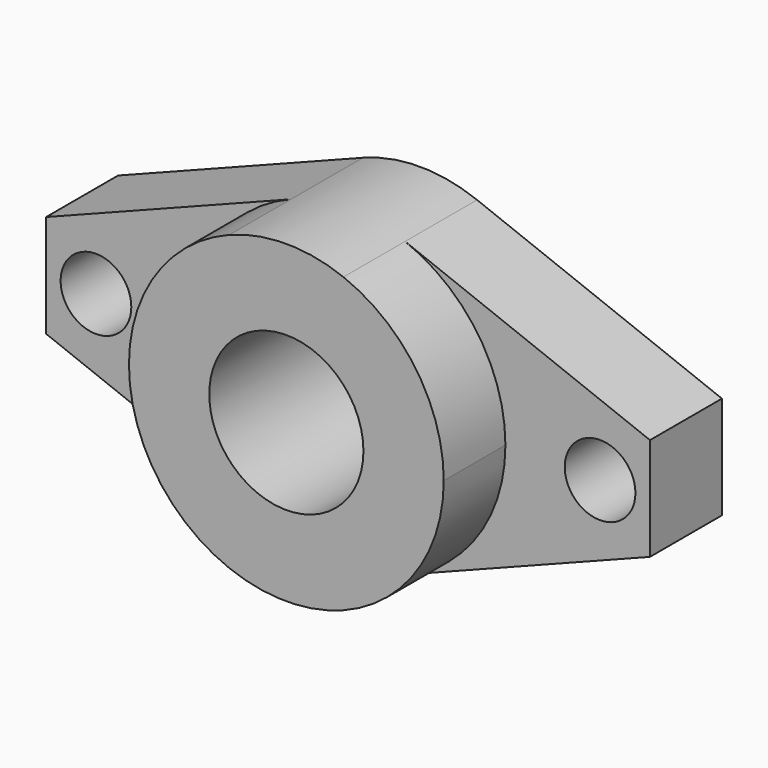
from build123d import *

# Parameters (mm, degrees)
F0_R     = 6
F1_DEPTH = 13
F0_R_2   = 2.75
F2_DEPTH = 7


with BuildPart() as f1:
    # F0 (on Front) → F1 (new body)
    with BuildSketch(Plane.XZ):
        with BuildLine():
            ThreePointArc((4.442476, -11.416081), (10.11145, -6.915279), (12.25, 0))
            ThreePointArc((12.25, 0), (10.11145, 6.915279), (4.442476, 11.416081))
            ThreePointArc((4.442476, 11.416081), (0, 12.25), (-4.442476, 11.416081))
            ThreePointArc((-4.442476, 11.416081), (-12.25, 0), (-4.442476, -11.416081))
            ThreePointArc((-4.442476, -11.416081), (0, -12.25), (4.442476, -11.416081))
        make_face()
        Circle(F0_R, mode=Mode.SUBTRACT)
    extrude(amount=F1_DEPTH)

    # F0 (on Front) → F2 (join)
    with BuildSketch(Plane.XZ):
        with BuildLine():
            ThreePointArc((-4.442476, -11.416081), (-12.25, 0), (-4.442476, 11.416081))
            Line((-4.442476, 11.416081), (-23.5, 4))
            Line((-23.5, 4), (-23.5, 0))
            Line((-23.5, 0), (-23.5, -4))
            Line((-23.5, -4), (-4.442476, -11.416081))
        make_face()
        with Locations((-19.616572, 0)):
            Circle(F0_R_2, mode=Mode.SUBTRACT)
        with BuildLine():
            ThreePointArc((4.442476, 11.416081), (10.11145, 6.915279), (12.25, 0))
            ThreePointArc((12.25, 0), (10.11145, -6.915279), (4.442476, -11.416081))
            Line((4.442476, -11.416081), (23.5, -4))
            Line((23.5, -4), (23.5, 0))
            Line((23.5, 0), (23.5, 4))
            Line((23.5, 4), (4.442476, 11.416081))
        make_face()
        with Locations((19.616572, 0)):
            Circle(F0_R_2, mode=Mode.SUBTRACT)
    extrude(amount=F2_DEPTH)


solid = f1.part
